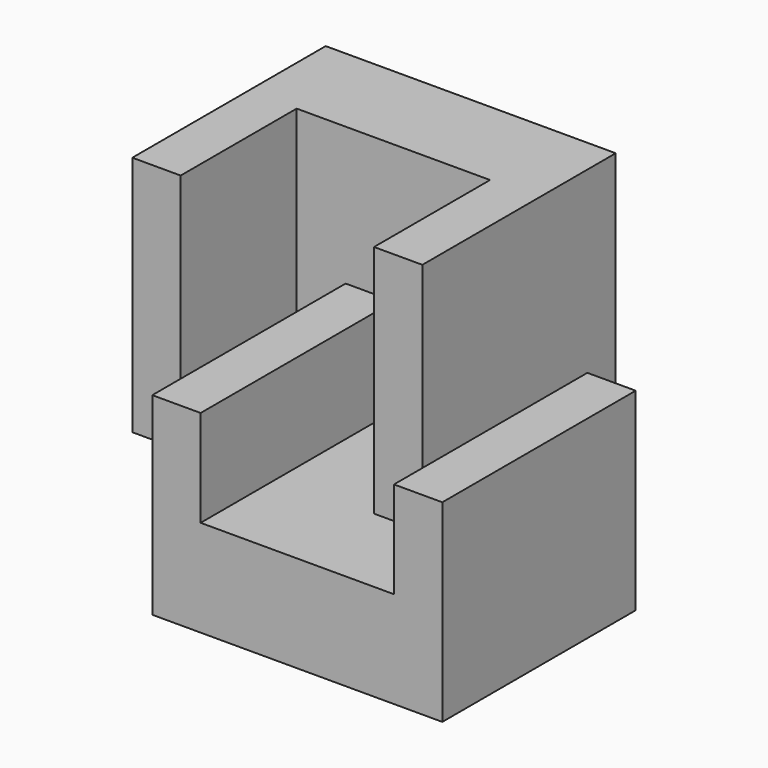
from build123d import *

# Parameters (mm, degrees)
F1_DEPTH = 127
F3_DEPTH = 127


with BuildPart() as f1:
    # F0 (on Front) → F1 (new body)
    with BuildSketch(Plane.XZ):
        Polygon((-89.792244, 54.44082), (-89.792244, -47.15918), (62.607756, -47.15918), (62.607756, 54.44082), (37.207756, 54.44082), (37.207756, 3.64082), (-64.392244, 3.64082), (-64.392244, 54.44082), align=None)
    extrude(amount=F1_DEPTH)

    # F2 (on Top) → F3 (join)
    with BuildSketch(Plane.XY):
        Polygon((11.475189, 50.8), (-140.924811, 50.8), (-140.924811, -76.2), (-115.524811, -76.2), (-115.524811, 0), (-13.924811, 0), (-13.924811, -76.2), (11.475189, -76.2), align=None)
    extrude(amount=F3_DEPTH)


solid = f1.part
